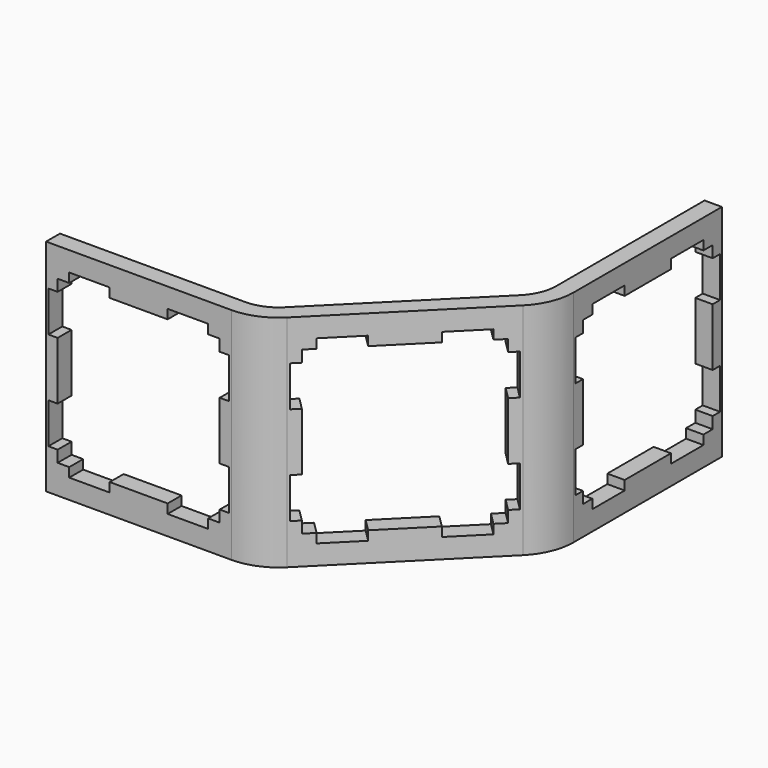
from build123d import *

# Parameters (mm, degrees)
PAD_DEPTH       = 19
POCKET_DEPTH    = 11.62232
POCKET002_DEPTH = 1.501
POCKET003_DEPTH = 1.501


with BuildPart() as part:
    # Sketch → Pad (new body)
    with BuildSketch(Plane.XY):
        with BuildLine():
            Line((0, 0), (16, 0))
            ThreePointArc((16, 0), (17.959845, 0.389838), (19.62132, 1.500001))
            Line((19.62132, 1.500001), (30.935023, 12.813715))
            ThreePointArc((30.935023, 12.813715), (32.045185, 14.475191), (32.435022, 16.435035))
            Line((32.435022, 32.435035), (32.435022, 16.435035))
            Line((30.935022, 32.435035), (32.435022, 32.435035))
            Line((30.935022, 16.435035), (30.935022, 32.435035))
            ThreePointArc((29.874363, 13.874375), (30.659366, 15.049216), (30.935022, 16.435035))
            Line((29.874363, 13.874375), (18.56066, 2.560661))
            ThreePointArc((16, 1.5), (17.385819, 1.775657), (18.56066, 2.560661))
            Line((16, 1.5), (0, 1.5))
            Line((0, 1.5), (0, 0))
        make_face()
    extrude(amount=PAD_DEPTH)

    # Sketch004 → Pocket (cut, through all)
    with BuildSketch(Plane(origin=(8.000009, -8.000001, 0), x_dir=(-0.707106, -0.707107, 0), z_dir=(-0.707107, 0.707106, 0))):
        Polygon((-28.935023, 17.3), (-25.435023, 17.3), (-25.435023, 16.5), (-20.435023, 16.5), (-20.435023, 17.3), (-16.935023, 17.3), (-16.935023, 16.5), (-15.935023, 16.5), (-15.935023, 15.5), (-15.135024, 15.5), (-15.135024, 12), (-15.935023, 12), (-15.935023, 7), (-15.135024, 7), (-15.135024, 3.5), (-15.935023, 3.5), (-15.935023, 2.5), (-16.935023, 2.5), (-16.935023, 1.7), (-20.435023, 1.7), (-20.435023, 2.5), (-25.435023, 2.5), (-25.435023, 1.7), (-28.935023, 1.7), (-28.935023, 2.5), (-29.935023, 2.5), (-29.935023, 3.5), (-30.735024, 3.5), (-30.735024, 7), (-29.935023, 7), (-29.935023, 12), (-30.735024, 12), (-30.735024, 15.5), (-29.935023, 15.5), (-29.935023, 16.5), (-28.935023, 16.5), align=None)
    extrude(amount=-POCKET_DEPTH, mode=Mode.SUBTRACT)

    # Sketch004001 → Pocket002 (cut, through all)
    with BuildSketch(Plane(origin=(30.935022, 0, 0), x_dir=(0, -1, 0), z_dir=(-1, 0, 0))):
        Polygon((-30.435035, 17.3), (-26.935035, 17.3), (-26.935035, 16.5), (-21.935035, 16.5), (-21.935035, 17.3), (-18.435035, 17.3), (-18.435035, 16.5), (-17.435035, 16.5), (-17.435035, 15.5), (-16.635036, 15.5), (-16.635036, 12), (-17.435035, 12), (-17.435035, 7), (-16.635036, 7), (-16.635036, 3.5), (-17.435035, 3.5), (-17.435035, 2.5), (-18.435035, 2.5), (-18.435035, 1.7), (-21.935035, 1.7), (-21.935035, 2.5), (-26.935035, 2.5), (-26.935035, 1.7), (-30.435035, 1.7), (-30.435035, 2.5), (-31.435035, 2.5), (-31.435035, 3.5), (-32.235036, 3.5), (-32.235036, 7), (-31.435035, 7), (-31.435035, 12), (-32.235036, 12), (-32.235036, 15.5), (-31.435035, 15.5), (-31.435035, 16.5), (-30.435035, 16.5), align=None)
    extrude(amount=-POCKET002_DEPTH, mode=Mode.SUBTRACT)

    # Sketch004001001 → Pocket003 (cut, through all)
    with BuildSketch(Plane(origin=(0, 1.5, 0), x_dir=(-1, 0, 0), z_dir=(0, 1, 0))):
        Polygon((-14, 17.3), (-10.5, 17.3), (-10.5, 16.5), (-5.5, 16.5), (-5.5, 17.3), (-2, 17.3), (-2, 16.5), (-1, 16.5), (-1, 15.5), (-0.200001, 15.5), (-0.200001, 12), (-1, 12), (-1, 7), (-0.200001, 7), (-0.200001, 3.5), (-1, 3.5), (-1, 2.5), (-2, 2.5), (-2, 1.7), (-5.5, 1.7), (-5.5, 2.5), (-10.5, 2.5), (-10.5, 1.7), (-14, 1.7), (-14, 2.5), (-15, 2.5), (-15, 3.5), (-15.800001, 3.5), (-15.800001, 7), (-15, 7), (-15, 12), (-15.800001, 12), (-15.800001, 15.5), (-15, 15.5), (-15, 16.5), (-14, 16.5), align=None)
    extrude(amount=-POCKET003_DEPTH, mode=Mode.SUBTRACT)


with BuildPart() as part_1:
    # Clone placement: moved
    add(part.part.moved(Location((2.38, -2.38, 19))))


with BuildPart() as part_2:
    # Clone001 placement: moved
    add(part_1.part.moved(Location((4.75, 4.76, 19))))


solid = part_2.part
